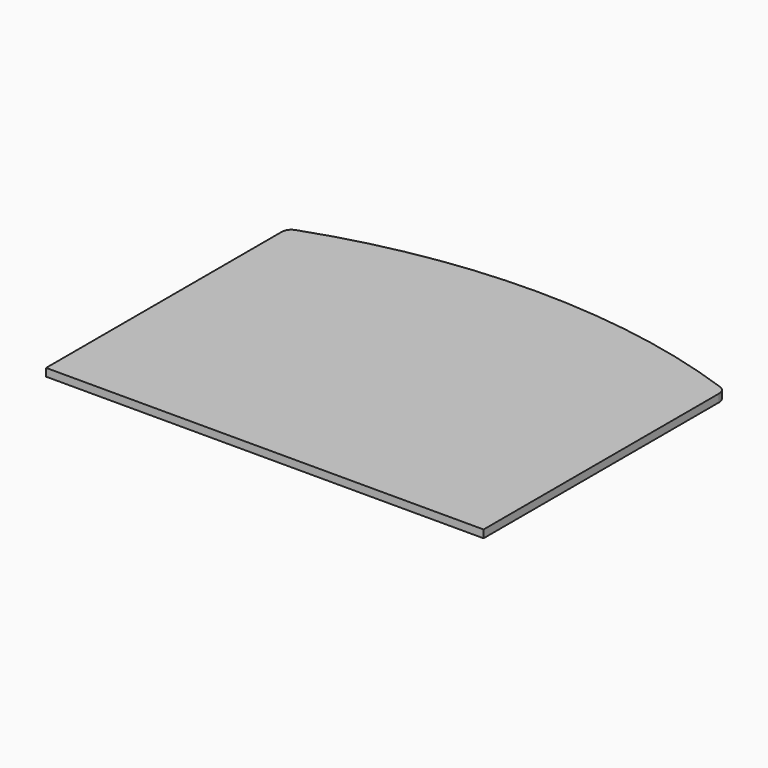
from build123d import *

# Parameters (mm, degrees)
F1_DEPTH = 8


with BuildPart() as f1:
    # F0 (on Top) → F1 (new body)
    with BuildSketch(Plane.XY):
        with BuildLine():
            Line((-175.588903, 189.29815), (-175.588903, -113.680494))
            Line((-175.588903, -113.680494), (274.411097, -113.680494))
            Line((274.411097, -113.680494), (274.411097, 189.29815))
            ThreePointArc((274.411097, 189.29815), (272.579535, 195.066739), (267.755773, 198.722223))
            ThreePointArc((267.755773, 198.722223), (49.411097, 236.319506), (-168.93358, 198.722223))
            ThreePointArc((-168.93358, 198.722223), (-173.757342, 195.066739), (-175.588903, 189.29815))
        make_face()
    extrude(amount=F1_DEPTH)


solid = f1.part
